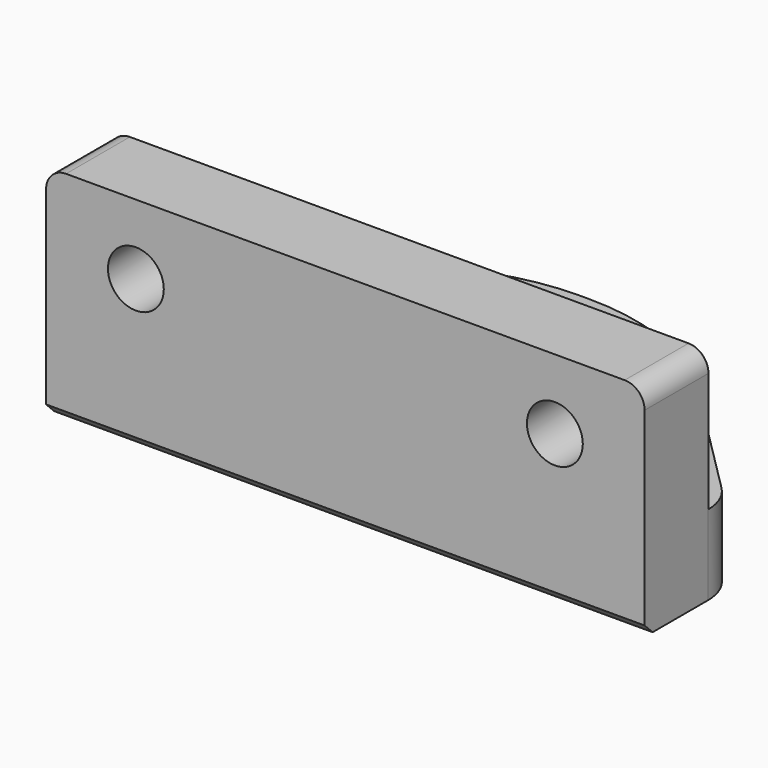
from build123d import *

# Parameters (mm, degrees)
PAD_DEPTH       = 8
SKETCH001_R     = 5.2
SKETCH001_R_2   = 1.75
POCKET_DEPTH    = 8.001
SKETCH002_W     = 60
SKETCH002_H     = 8
PAD001_DEPTH    = 14
SKETCH003_R     = 2.8
POCKET001_DEPTH = 30.001
FILLET_R        = 23
FILLET001_R     = 5
CHAMFER_SIZE    = 1
FILLET002_R     = 2


with BuildPart() as part:
    # Sketch → Pad (new body)
    with BuildSketch(Plane.XY):
        Polygon((-30, 0), (-30, 10), (-10, 30), (10, 30), (30, 10), (30, 0), align=None)
    extrude(amount=PAD_DEPTH)

    # Sketch001 → Pocket (cut, through all)
    with BuildSketch(Plane.XY.offset(8)):
        with Locations((0, 16)):
            Circle(SKETCH001_R)
        with Locations((-8, 16)):
            Circle(SKETCH001_R_2)
        with Locations((8, 16)):
            Circle(SKETCH001_R_2)
    extrude(amount=-POCKET_DEPTH, mode=Mode.SUBTRACT)

    # Sketch002 → Pad001 (new body)
    with BuildSketch(Plane.XY.offset(8)):
        with Locations((0, 4)):
            Rectangle(SKETCH002_W, SKETCH002_H)
    extrude(amount=PAD001_DEPTH)

    # Sketch003 → Pocket001 (cut, through all)
    with BuildSketch(Plane.XZ):
        with Locations((-21, 15)):
            Circle(SKETCH003_R)
        with Locations((21, 15)):
            Circle(SKETCH003_R)
    extrude(amount=-POCKET001_DEPTH, mode=Mode.SUBTRACT)

    # Fillet
    fillet_edges = [part.edges().sort_by_distance(p)[0] for p in [
        (10, 30, 4),
        (-10, 30, 4),
    ]]
    fillet(fillet_edges, radius=FILLET_R)

    # Fillet001
    fillet001_edges = [part.edges().sort_by_distance(p)[0] for p in [
        (30, 10, 4),
        (-30, 10, 4),
    ]]
    fillet(fillet001_edges, radius=FILLET001_R)

    # Chamfer
    chamfer_edges = [part.edges().sort_by_distance(p)[0] for p in [
        (0, 0, 0),
    ]]
    chamfer(chamfer_edges, length=CHAMFER_SIZE)

    # Fillet002
    fillet002_edges = [part.edges().sort_by_distance(p)[0] for p in [
        (30, 3.964466, 22),
        (-30, 3.964466, 22),
    ]]
    fillet(fillet002_edges, radius=FILLET002_R)


solid = part.part
